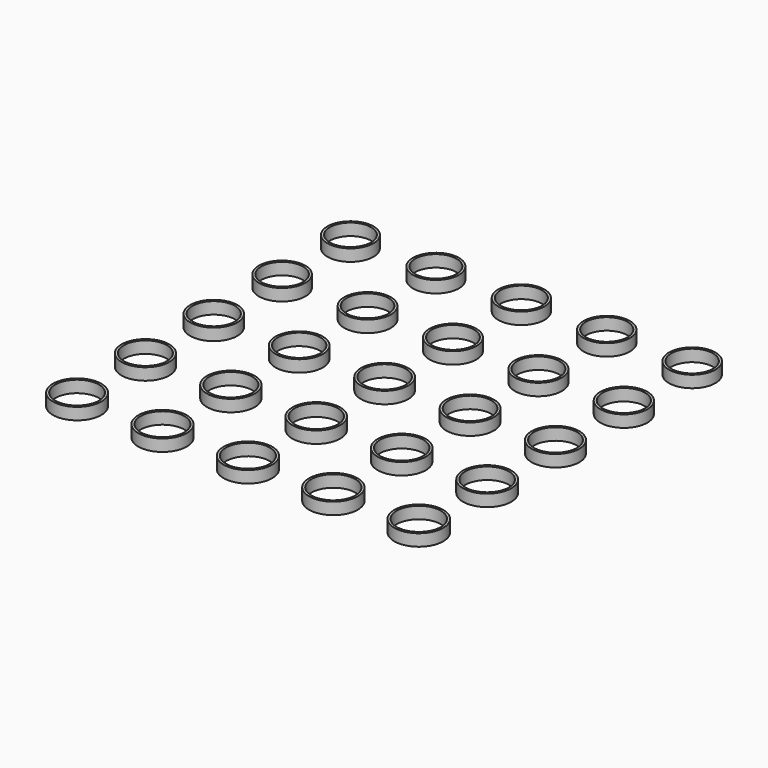
from build123d import *

# Parameters (mm, degrees)
F0_R     = 9.7
F0_R_2   = 8.7
F0_R_3   = 9.725
F0_R_4   = 8.725
F0_R_5   = 9.75
F0_R_6   = 8.75
F0_R_7   = 9.775
F0_R_8   = 8.775
F0_R_9   = 9.8
F0_R_10  = 8.8
F0_R_11  = 9.825
F0_R_12  = 8.825
F0_R_13  = 9.85
F0_R_14  = 8.85
F0_R_15  = 9.875
F0_R_16  = 8.875
F0_R_17  = 9.9
F0_R_18  = 8.9
F0_R_19  = 9.925
F0_R_20  = 8.925
F0_R_21  = 9.95
F0_R_22  = 8.95
F0_R_23  = 9.975
F0_R_24  = 8.975
F0_R_25  = 10
F0_R_26  = 9
F0_R_27  = 10.025
F0_R_28  = 9.025
F0_R_29  = 10.05
F0_R_30  = 9.05
F0_R_31  = 10.075
F0_R_32  = 9.075
F0_R_33  = 10.1
F0_R_34  = 9.1
F0_R_35  = 10.125
F0_R_36  = 9.125
F0_R_37  = 10.15
F0_R_38  = 9.15
F0_R_39  = 10.175
F0_R_40  = 9.175
F0_R_41  = 10.2
F0_R_42  = 9.2
F0_R_43  = 10.225
F0_R_44  = 9.225
F0_R_45  = 10.25
F0_R_46  = 9.25
F0_R_47  = 10.275
F0_R_48  = 9.275
F0_R_49  = 10.3
F0_R_50  = 9.3
F1_DEPTH = 5


with BuildPart() as f1:
    # F0 (on Top) → F1 (new body)
    with BuildSketch(Plane.XY):
        with Locations((-72, 72)):
            Circle(F0_R)
        with Locations((-72, 72)):
            Circle(F0_R_2, mode=Mode.SUBTRACT)
        with Locations((-36, 72)):
            Circle(F0_R_3)
        with Locations((-36, 72)):
            Circle(F0_R_4, mode=Mode.SUBTRACT)
        with Locations((0, 72)):
            Circle(F0_R_5)
        with Locations((0, 72)):
            Circle(F0_R_6, mode=Mode.SUBTRACT)
        with Locations((36, 72)):
            Circle(F0_R_7)
        with Locations((36, 72)):
            Circle(F0_R_8, mode=Mode.SUBTRACT)
        with Locations((72, 72)):
            Circle(F0_R_9)
        with Locations((72, 72)):
            Circle(F0_R_10, mode=Mode.SUBTRACT)
        with Locations((-72, 36)):
            Circle(F0_R_11)
        with Locations((-72, 36)):
            Circle(F0_R_12, mode=Mode.SUBTRACT)
        with Locations((-36, 36)):
            Circle(F0_R_13)
        with Locations((-36, 36)):
            Circle(F0_R_14, mode=Mode.SUBTRACT)
        with Locations((0, 36)):
            Circle(F0_R_15)
        with Locations((0, 36)):
            Circle(F0_R_16, mode=Mode.SUBTRACT)
        with Locations((36, 36)):
            Circle(F0_R_17)
        with Locations((36, 36)):
            Circle(F0_R_18, mode=Mode.SUBTRACT)
        with Locations((72, 36)):
            Circle(F0_R_19)
        with Locations((72, 36)):
            Circle(F0_R_20, mode=Mode.SUBTRACT)
        with Locations((-72, 0)):
            Circle(F0_R_21)
        with Locations((-72, 0)):
            Circle(F0_R_22, mode=Mode.SUBTRACT)
        with Locations((-36, 0)):
            Circle(F0_R_23)
        with Locations((-36, 0)):
            Circle(F0_R_24, mode=Mode.SUBTRACT)
        Circle(F0_R_25)
        Circle(F0_R_26, mode=Mode.SUBTRACT)
        with Locations((36, 0)):
            Circle(F0_R_27)
        with Locations((36, 0)):
            Circle(F0_R_28, mode=Mode.SUBTRACT)
        with Locations((72, 0)):
            Circle(F0_R_29)
        with Locations((72, 0)):
            Circle(F0_R_30, mode=Mode.SUBTRACT)
        with Locations((-72, -36)):
            Circle(F0_R_31)
        with Locations((-72, -36)):
            Circle(F0_R_32, mode=Mode.SUBTRACT)
        with Locations((-36, -36)):
            Circle(F0_R_33)
        with Locations((-36, -36)):
            Circle(F0_R_34, mode=Mode.SUBTRACT)
        with Locations((0, -36)):
            Circle(F0_R_35)
        with Locations((0, -36)):
            Circle(F0_R_36, mode=Mode.SUBTRACT)
        with Locations((36, -36)):
            Circle(F0_R_37)
        with Locations((36, -36)):
            Circle(F0_R_38, mode=Mode.SUBTRACT)
        with Locations((72, -36)):
            Circle(F0_R_39)
        with Locations((72, -36)):
            Circle(F0_R_40, mode=Mode.SUBTRACT)
        with Locations((-72, -72)):
            Circle(F0_R_41)
        with Locations((-72, -72)):
            Circle(F0_R_42, mode=Mode.SUBTRACT)
        with Locations((-36, -72)):
            Circle(F0_R_43)
        with Locations((-36, -72)):
            Circle(F0_R_44, mode=Mode.SUBTRACT)
        with Locations((0, -72)):
            Circle(F0_R_45)
        with Locations((0, -72)):
            Circle(F0_R_46, mode=Mode.SUBTRACT)
        with Locations((36, -72)):
            Circle(F0_R_47)
        with Locations((36, -72)):
            Circle(F0_R_48, mode=Mode.SUBTRACT)
        with Locations((72, -72)):
            Circle(F0_R_49)
        with Locations((72, -72)):
            Circle(F0_R_50, mode=Mode.SUBTRACT)
    extrude(amount=F1_DEPTH)


solid = f1.part
